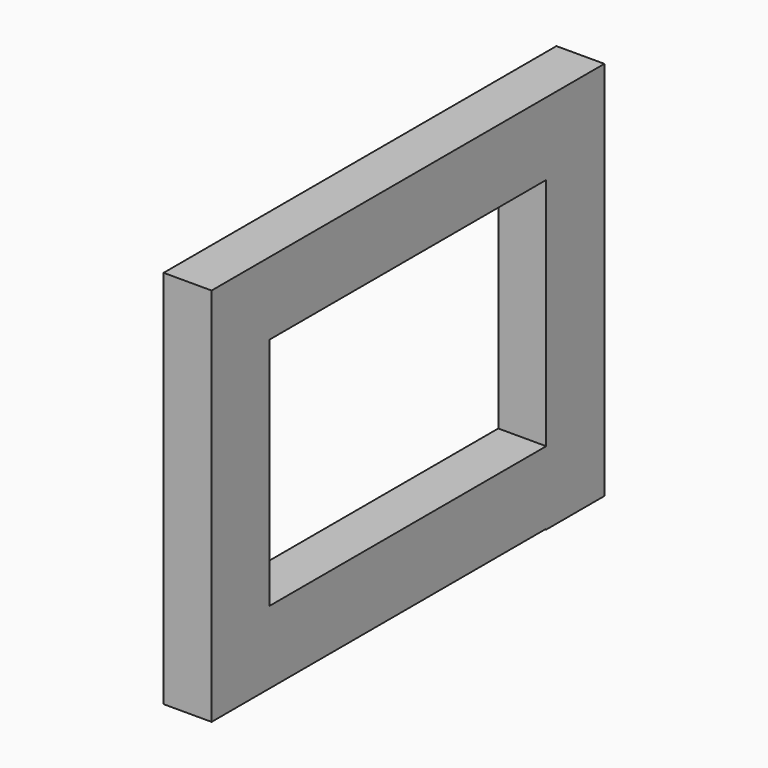
from build123d import *

# Parameters (mm, degrees)
F0_W     = 6.7056016997
F0_H     = 48.3108013868
F1_DEPTH = 10.16
F2_W     = 6.7056016997
F2_H     = 43.0277371144
F3_DEPTH = 10.16
F4_W     = 6.7056016997
F4_H     = 42.9259994364
F5_DEPTH = 10.16
F6_W     = 6.7056016997
F6_H     = 58.4708013868
F7_DEPTH = 10.16
F8_W     = 6.7056016997
F8_H     = 10.16
F9_DEPTH = 10.16


with BuildPart() as f1:
    # F0 (on Top) → F1 (new body)
    with BuildSketch(Plane.XY):
        with Locations((3.3528008498, -24.1554006934)):
            Rectangle(F0_W, F0_H)
    extrude(amount=F1_DEPTH)

    # F2 (on face) → F3 (join)
    with BuildSketch(Plane(origin=(0, 0, 0), x_dir=(-1, 0, 0), z_dir=(0, 1, 0))):
        with Locations((-3.3528008498, -11.3538685572)):
            Rectangle(F2_W, F2_H)
    extrude(amount=F3_DEPTH)

    # F4 (on face) → F5 (join)
    with BuildSketch(Plane.XZ.offset(48.3108013868)):
        with Locations((3.3528008498, -11.3029997182)):
            Rectangle(F4_W, F4_H)
    extrude(amount=F5_DEPTH)

    # F6 (on face) → F7 (join)
    with BuildSketch(Plane(origin=(0, 0, -32.7659994364), x_dir=(1, 0, 0), z_dir=(0, 0, -1))):
        with Locations((3.3528008498, 29.2354006934)):
            Rectangle(F6_W, F6_H)
    extrude(amount=F7_DEPTH)

    # F8 (on face) → F9 (join)
    with BuildSketch(Plane(origin=(0, 0, -32.8677371144), x_dir=(1, 0, 0), z_dir=(0, 0, -1))):
        with Locations((3.3528008498, -5.08)):
            Rectangle(F8_W, F8_H)
    extrude(amount=F9_DEPTH)


solid = f1.part
